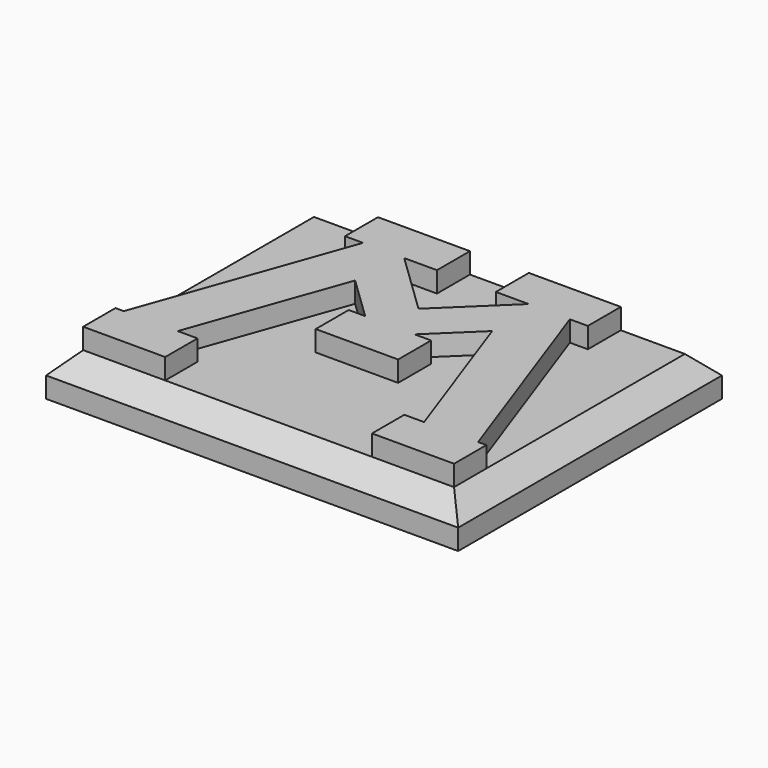
from build123d import *

# Parameters (mm, degrees)
F0_W     = 127
F0_H     = 101.6
F1_DEPTH = 12.7
F2_SIZE  = 6.35
F4_DEPTH = 6.35


with BuildPart() as f1:
    # F0 (on Top) → F1 (new body)
    with BuildSketch(Plane.XY):
        with Locations((63.5, 50.8)):
            Rectangle(F0_W, F0_H)
    extrude(amount=F1_DEPTH)

    # F2
    f2_edges = [f1.edges().sort_by_distance(p)[0] for p in [
        (0, 50.8, 12.7),
        (63.5, 101.6, 12.7),
        (127, 50.8, 12.7),
        (63.5, 0, 12.7),
    ]]
    chamfer(f2_edges, length=F2_SIZE)

    # F3 (on face) → F4 (join)
    with BuildSketch(Plane.XY.offset(12.7)):
        Polygon((82.67119, 82.55), (63.5, 64.081497), (44.32881, 82.55), (54.423093, 82.55), (54.423093, 95.25), (26.081875, 95.25), (26.081875, 82.55), (31.62881, 82.55), (8.904249, 18.794981), (6.35, 18.794981), (6.35, 6.35), (31.62881, 6.35), (31.62881, 18.794981), (25.537017, 18.794981), (42.386614, 66.067462), (55.88, 53.068654), (50.8, 53.068654), (50.8, 40.368654), (76.2, 40.368654), (76.2, 53.068654), (71.12, 53.068654), (84.613386, 66.067462), (101.462983, 18.794981), (95.37119, 18.794981), (95.37119, 6.35), (120.65, 6.35), (120.65, 18.794981), (118.095751, 18.794981), (95.37119, 82.55), (100.918125, 82.55), (100.918125, 95.25), (72.576907, 95.25), (72.576907, 82.55), align=None)
    extrude(amount=F4_DEPTH)


solid = f1.part
